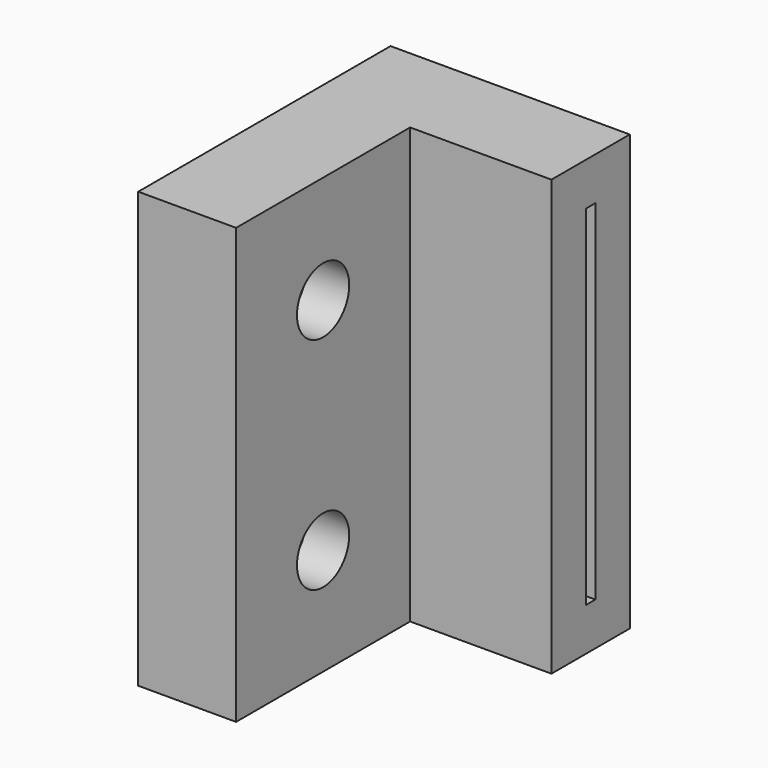
from build123d import *

# Parameters (mm, degrees)
F1_DEPTH = 40
F3_T     = -3.95
F4_D     = 6


with BuildPart() as f1:
    # F0 (on Top) → F1 (new body)
    with BuildSketch(Plane.XY):
        Polygon((-9, 0), (0, 0), (0, 20), (13, 20), (13, 29), (-9, 29), (-9, 20), align=None)
    extrude(amount=F1_DEPTH)

    # F3
    f3_openings = [f1.faces().sort_by_distance(p)[0] for p in [
        (13, 24.5, 20),
    ]]
    offset(amount=F3_T, openings=f3_openings, kind=Kind.INTERSECTION)

    # F4 (through all)
    with Locations(Plane.YZ):
        with Locations((10, 30.0820767879), (10, 9.8383650184)):
            Hole(F4_D / 2)


solid = f1.part
